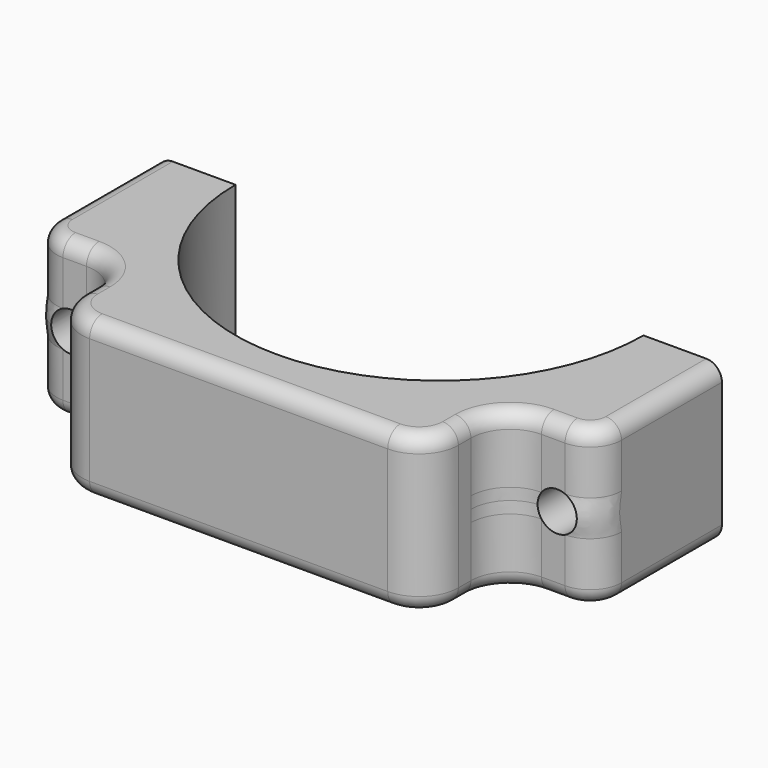
from build123d import *

# Parameters (mm, degrees)
PAD_DEPTH    = 10
SKETCH_R     = 1.25
POCKET_DEPTH = 16.001
FILLET_R     = 2.5
FILLET001_R  = 2.5
FILLET002_R  = 2.5
FILLET003_R  = 2.5
FILLET004_R  = 2
FILLET005_R  = 2
FILLET006_R  = 1
FILLET007_R  = 1


with BuildPart() as part:
    # Sketch001 → Pad (new body)
    with BuildSketch(Plane.XY):
        with BuildLine():
            Line((-36, 16), (-31, 16))
            ThreePointArc((-31, 16), (-18, 3), (-5, 16))
            Line((0, 16), (-5, 16))
            Line((0, 6), (0, 16))
            Line((-6, 6), (0, 6))
            Line((-6, 0), (-6, 6))
            Line((-30, 0), (-6, 0))
            Line((-30, 6), (-30, 0))
            Line((-36, 6), (-30, 6))
            Line((-36, 6), (-36, 16))
        make_face()
    extrude(amount=PAD_DEPTH)

    # Sketch (on Face4 of Pad) → Pocket (cut, through all)
    with BuildSketch(Plane(origin=(0, 16, 0), x_dir=(-1, 0, 0), z_dir=(0, 1, 0))):
        with Locations((2.5, 5)):
            Circle(SKETCH_R)
        with Locations((33.5, 5)):
            Circle(SKETCH_R)
    extrude(amount=-POCKET_DEPTH, mode=Mode.SUBTRACT)

    # Fillet
    fillet_edges = [part.edges().sort_by_distance(p)[0] for p in [
        (-6, 6, 5),
    ]]
    fillet(fillet_edges, radius=FILLET_R)

    # Fillet001
    fillet001_edges = [part.edges().sort_by_distance(p)[0] for p in [
        (-6, 0, 5),
    ]]
    fillet(fillet001_edges, radius=FILLET001_R)

    # Fillet002
    fillet002_edges = [part.edges().sort_by_distance(p)[0] for p in [
        (-30, 6, 5),
    ]]
    fillet(fillet002_edges, radius=FILLET002_R)

    # Fillet003
    fillet003_edges = [part.edges().sort_by_distance(p)[0] for p in [
        (-30, 0, 5),
    ]]
    fillet(fillet003_edges, radius=FILLET003_R)

    # Fillet004
    fillet004_edges = [part.edges().sort_by_distance(p)[0] for p in [
        (-36, 6, 5),
    ]]
    fillet(fillet004_edges, radius=FILLET004_R)

    # Fillet005
    fillet005_edges = [part.edges().sort_by_distance(p)[0] for p in [
        (0, 6, 5),
    ]]
    fillet(fillet005_edges, radius=FILLET005_R)

    # Fillet006
    fillet006_edges = [part.edges().sort_by_distance(p)[0] for p in [
        (-35.414214, 6.585786, 10),
    ]]
    fillet(fillet006_edges, radius=FILLET006_R)

    # Fillet007
    fillet007_edges = [part.edges().sort_by_distance(p)[0] for p in [
        (-30.732233, 5.267767, 0),
    ]]
    fillet(fillet007_edges, radius=FILLET007_R)


solid = part.part
